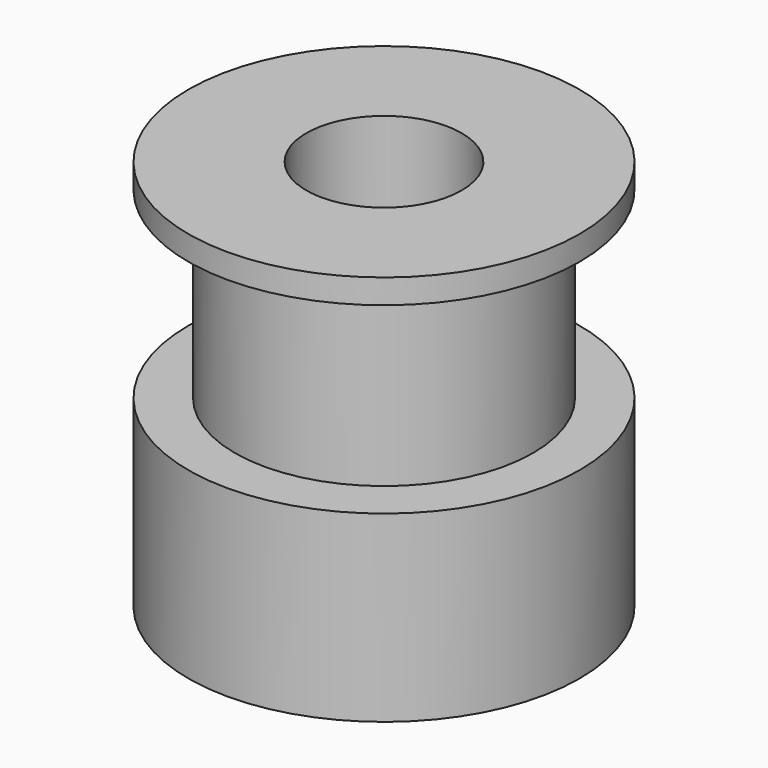
from build123d import *

# Parameters (mm, degrees)
F2_R     = 3.175
F3_DEPTH = 25
F4_R     = 2
F5_DEPTH = 25


with BuildPart() as f1:
    # F0 (on Front) → F1 (revolve)
    with BuildSketch(Plane.XZ):
        Polygon((-8, -8), (0, -8), (0, 8), (-8, 8), (-8, 7), (-6.1, 7), (-6.1, -0.5), (-8, -0.5), align=None)
    revolve(axis=Axis((0, 0, -0.818246), (0, 0, -1)))

    # F2 (on face) → F3 (cut)
    with BuildSketch(Plane(origin=(0, 0, -8), x_dir=(1, 0, 0), z_dir=(0, 0, -1))):
        Circle(F2_R)
    extrude(amount=-F3_DEPTH, mode=Mode.SUBTRACT)

    # F4 (on Right) → F5 (cut)
    with BuildSketch(Plane.YZ):
        with Locations((0, -5)):
            Circle(F4_R)
    extrude(amount=-F5_DEPTH, mode=Mode.SUBTRACT)


solid = f1.part
